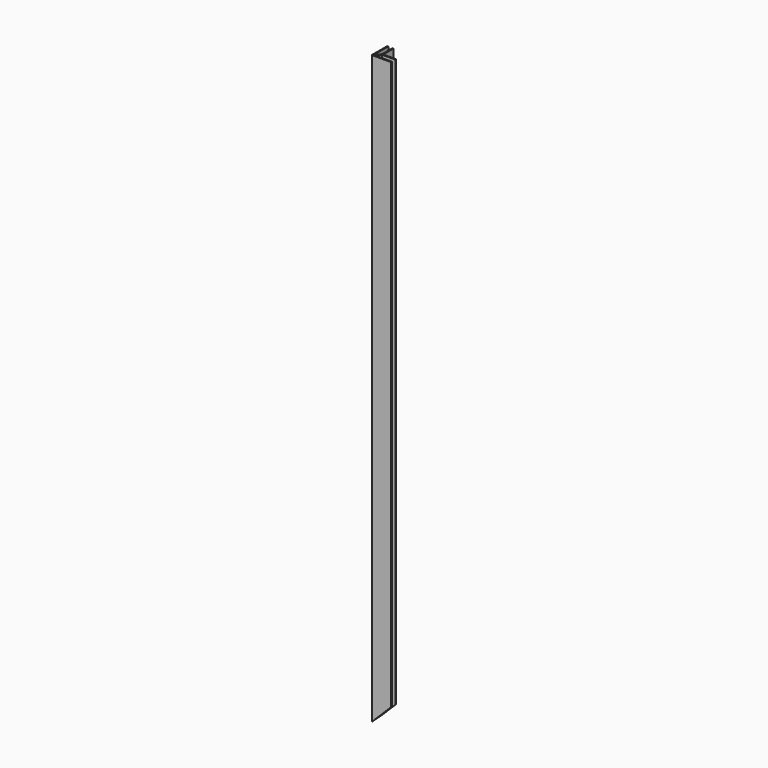
from build123d import *

# Parameters (mm, degrees)
F1_DEPTH      = 914.4
F4_DEPTH      = 50.8
F4_DEPTH_BACK = 25.4
F5_DEPTH      = 50.8


with BuildPart() as f1:
    # F0 (on Top) → F1 (new body)
    with BuildSketch(Plane.XY):
        Polygon((10.0081935422, 9.9204859395), (10.0081935422, 30.1515859395), (8.4206935422, 30.1515859395), (8.4206935422, 9.4563106097), (1.6738185422, 2.6999106097), (1.6738185422, 30.1515859395), (0.0863185422, 30.1515859395), (0.0863185422, -0.0109140605), (30.2488185422, -0.0109140605), (30.2488185422, 1.5765859395), (2.7955595779, 1.5765859395), (9.5424345779, 8.3329859395), (30.2488185422, 8.3329859395), (30.2488185422, 9.9204859395), align=None)
    extrude(amount=F1_DEPTH)

    # F2 (on Front) → F4 (cut, two sides)
    with BuildSketch(Plane.XZ) as f4_sk:
        Polygon((30.48, 30.48), (0, 0), (30.48, 0), align=None)
    extrude(amount=-F4_DEPTH, mode=Mode.SUBTRACT)
    extrude(f4_sk.sketch, amount=F4_DEPTH_BACK, mode=Mode.SUBTRACT)

    # F3 (on Right) → F5 (cut)
    with BuildSketch(Plane.YZ):
        Polygon((30.1625, 30.1625), (0, 0), (30.1625, 0), align=None)
    extrude(amount=F5_DEPTH, mode=Mode.SUBTRACT)


solid = f1.part
